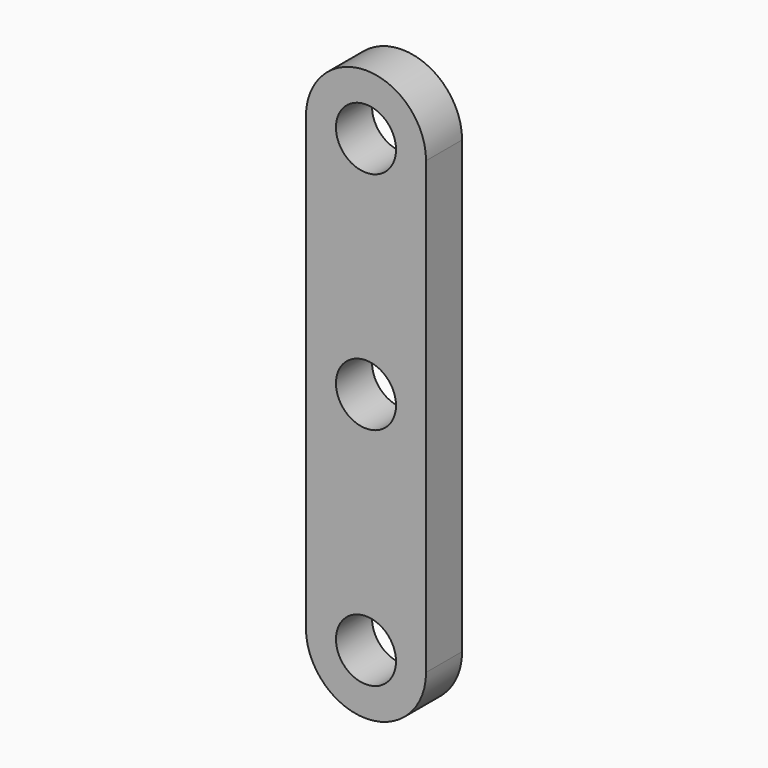
from build123d import *

# Parameters (mm, degrees)
F1_DEPTH = 15
F2_R     = 10
F3_DEPTH = 25
F4_R     = 10
F5_DEPTH = 25


with BuildPart() as f1:
    # F0 (on Front) → F1 (new body)
    with BuildSketch(Plane.XZ):
        with BuildLine():
            ThreePointArc((-20, 0), (0, -20), (20, 0))
            ThreePointArc((20, 0), (0, 20), (-20, 0))
        make_face()
        with BuildLine():
            ThreePointArc((-20, 0), (0, 20), (20, 0))
            Line((20, 0), (20, 150))
            ThreePointArc((20, 150), (0, 130), (-20, 150))
            Line((-20, 150), (-20, 0))
        make_face()
        with BuildLine():
            ThreePointArc((-20, 150), (0, 130), (20, 150))
            ThreePointArc((20, 150), (0, 170), (-20, 150))
        make_face()
    extrude(amount=F1_DEPTH)

    # F2 (on face) → F3 (cut)
    with BuildSketch(Plane.XZ.offset(15)):
        with Locations((0, 150)):
            Circle(F2_R)
        Circle(F2_R)
    extrude(amount=-F3_DEPTH, mode=Mode.SUBTRACT)

    # F4 (on face) → F5 (cut)
    with BuildSketch(Plane.XZ.offset(15)):
        with Locations((0, 75)):
            Circle(F4_R)
    extrude(amount=-F5_DEPTH, mode=Mode.SUBTRACT)


solid = f1.part
